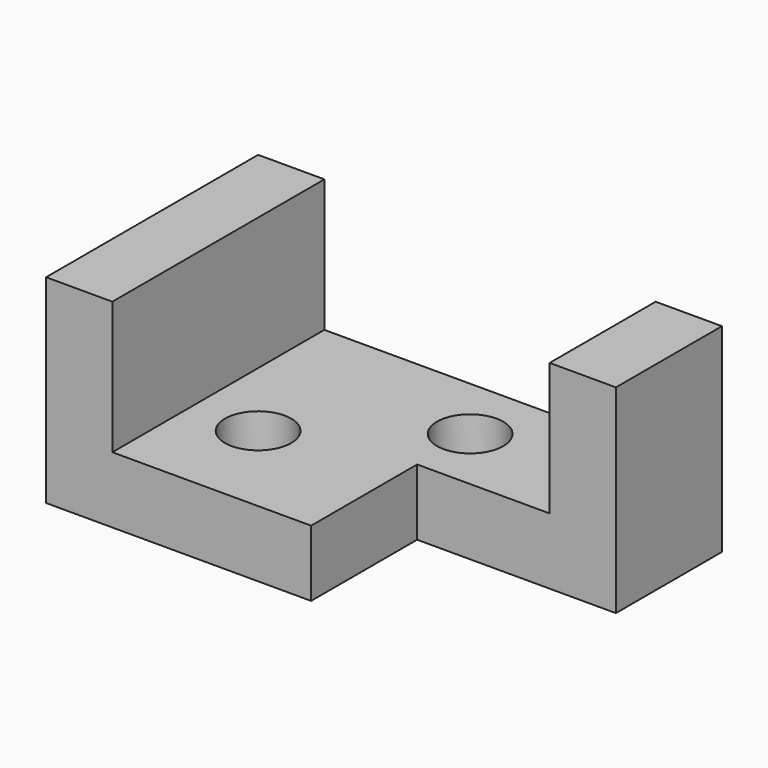
from build123d import *

# Parameters (mm, degrees)
F0_W     = 88.9
F0_H     = 38.1
F1_DEPTH = 50.8
F2_W     = 63.5
F2_H     = 50.8
F3_DEPTH = 25.4
F4_W     = 25.4
F4_H     = 38.1
F5_DEPTH = 38.1
F6_R     = 6.35
F7_DEPTH = 25.4


with BuildPart() as f1:
    # F0 (on Front) → F1 (new body)
    with BuildSketch(Plane.XZ):
        Rectangle(F0_W, F0_H)
    extrude(amount=F1_DEPTH)

    # F2 (on face) → F3 (cut)
    with BuildSketch(Plane.XY.offset(19.05)):
        with Locations((0, -25.4)):
            Rectangle(F2_W, F2_H)
    extrude(amount=-F3_DEPTH, mode=Mode.SUBTRACT)

    # F4 (on face) → F5 (cut)
    with BuildSketch(Plane.YZ.offset(44.45)):
        with Locations((-38.1, 0)):
            Rectangle(F4_W, F4_H)
    extrude(amount=-F5_DEPTH, mode=Mode.SUBTRACT)

    # F6 (on face) → F7 (cut)
    with BuildSketch(Plane.XY.offset(-6.35)):
        with Locations((-19.05, -31.75)):
            Circle(F6_R)
        with Locations((6.35, -12.7)):
            Circle(F6_R)
    extrude(amount=-F7_DEPTH, mode=Mode.SUBTRACT)


solid = f1.part
